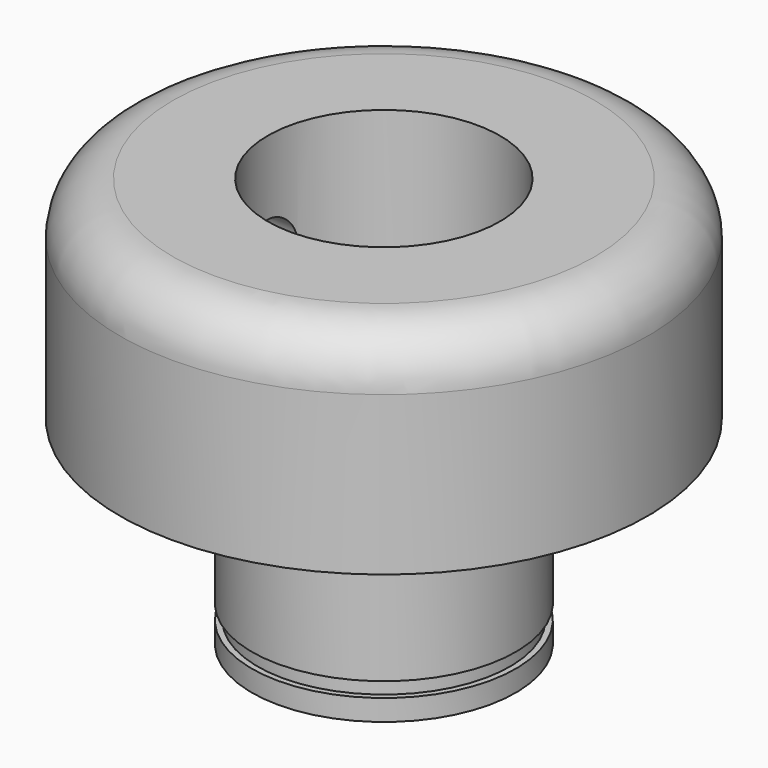
from build123d import *

# Parameters (mm, degrees)
F2_R     = 5
F4_D     = 6
F4_DEPTH = 25.001


with BuildPart() as f1:
    # F0 (on Right) → F1 (revolve)
    with BuildSketch(Plane.YZ):
        Polygon((-12.5, 0), (-11, 0), (-11, 38.8), (-25, 38.8), (-25, 18.8), (-12.5, 18.8), (-12.5, 16.8), (-11.95, 16.8), (-11.95, 15.4), (-12.5, 15.4), (-12.5, 3.4), (-11.95, 3.4), (-11.95, 2), (-12.5, 2), align=None)
    revolve(axis=Axis((0, 0, 19.5372104645), (0, 0, 1)))

    # F2
    f2_edges = [f1.edges().sort_by_distance(p)[0] for p in [
        (0, 25, 38.8),
    ]]
    fillet(f2_edges, radius=F2_R)

    # F4 (through all, one way)
    with BuildSketch(Plane.YZ):
        with Locations((0, 28.8)):
            Circle(F4_D / 2)
    extrude(amount=-F4_DEPTH, mode=Mode.SUBTRACT)


solid = f1.part
